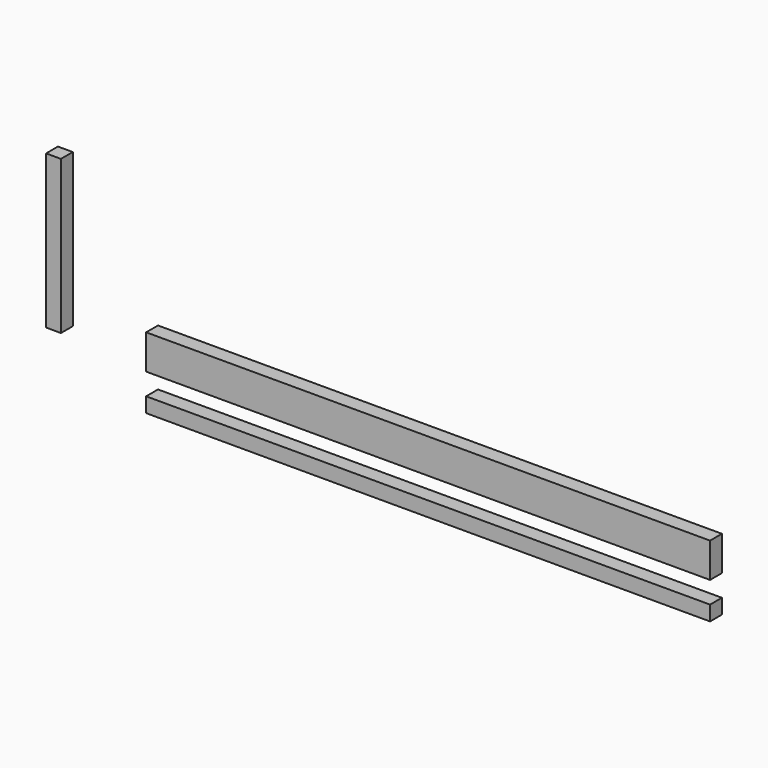
from build123d import *

# Parameters (mm, degrees)
F0_W     = 1447.8
F0_H     = 88.9
F1_DEPTH = 38.1
F2_W     = 1447.8
F2_H     = 38.1
F3_DEPTH = 38.1
F4_W     = 38.1
F4_H     = 393.7
F5_DEPTH = 38.1


with BuildPart() as f1:
    # F0 (on Front) → F1 (new body)
    with BuildSketch(Plane.XZ):
        Rectangle(F0_W, F0_H)
    extrude(amount=F1_DEPTH)


with BuildPart() as f3:
    # F2 (on Front) → F3 (new body)
    with BuildSketch(Plane.XZ):
        with Locations((0, -119.230582)):
            Rectangle(F2_W, F2_H)
    extrude(amount=F3_DEPTH)


with BuildPart() as f5:
    # F4 (on Front) → F5 (new body)
    with BuildSketch(Plane.XZ):
        with Locations((-961.719573, 168.448036)):
            Rectangle(F4_W, F4_H)
    extrude(amount=F5_DEPTH)


solid = Compound([f1.part, f3.part, f5.part])
